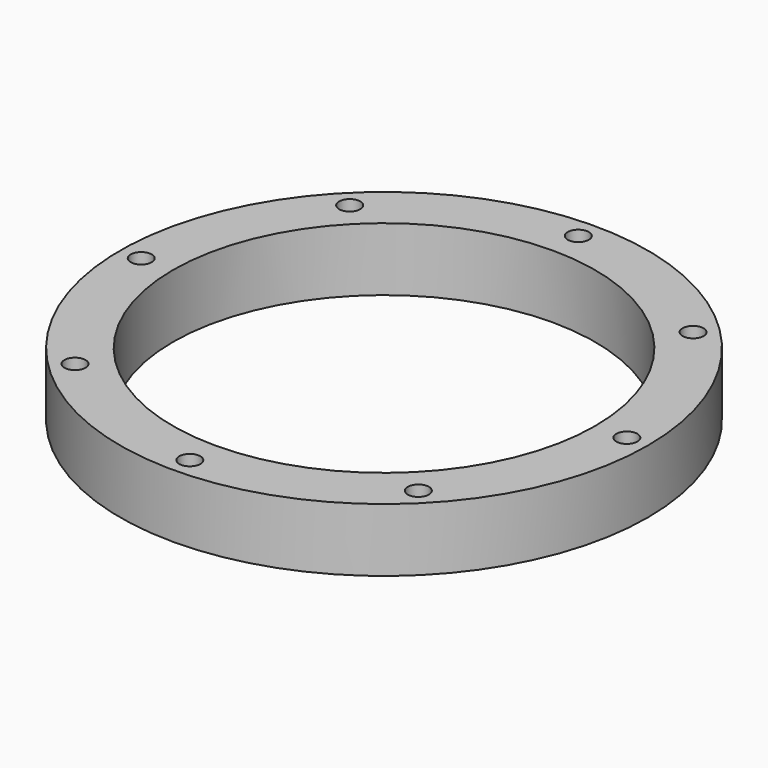
from build123d import *

# Parameters (mm, degrees)
CYLINDER2777_R               = 1
CYLINDER2777_DEPTH           = 10
CYLINDER2777_PLACEMENT_ANGLE = 45
CYLINDER2779_R               = 1
CYLINDER2779_DEPTH           = 10
CYLINDER2780_R               = 1
CYLINDER2780_DEPTH           = 10
CYLINDER2780_PLACEMENT_ANGLE = 135
CYLINDER2784_R               = 1
CYLINDER2784_DEPTH           = 10
CYLINDER2776_R               = 1
CYLINDER2776_DEPTH           = 10
CYLINDER2776_PLACEMENT_ANGLE = 225
CYLINDER2782_R               = 1
CYLINDER2782_DEPTH           = 10
CYLINDER2775_R               = 1
CYLINDER2775_DEPTH           = 10
CYLINDER2775_PLACEMENT_ANGLE = 45
CYLINDER2774_R               = 1
CYLINDER2774_DEPTH           = 10
CYLINDER2788_R               = 2
CYLINDER2788_DEPTH           = 2
CYLINDER2788_PLACEMENT_ANGLE = 45
CYLINDER2783_R               = 2
CYLINDER2783_DEPTH           = 2
CYLINDER2778_R               = 2
CYLINDER2778_DEPTH           = 2
CYLINDER2778_PLACEMENT_ANGLE = 135
CYLINDER2789_R               = 2
CYLINDER2789_DEPTH           = 2
CYLINDER2785_R               = 2
CYLINDER2785_DEPTH           = 2
CYLINDER2785_PLACEMENT_ANGLE = 225
CYLINDER2786_R               = 2
CYLINDER2786_DEPTH           = 2
CYLINDER2787_R               = 2
CYLINDER2787_DEPTH           = 2
CYLINDER2787_PLACEMENT_ANGLE = 45
CYLINDER2781_R               = 2
CYLINDER2781_DEPTH           = 2
TUBE136_R                    = 25
TUBE136_R_2                  = 20
TUBE136_DEPTH                = 6


with BuildPart() as obj1:
    # Cylinder2777 → Cylinder2777 (new body)
    with BuildSketch(Plane.XY):
        Circle(CYLINDER2777_R)
    extrude(amount=CYLINDER2777_DEPTH)


with BuildPart() as obj1_1:
    # Cylinder2777 placement: moved
    add(obj1.part.moved(Location((-16.263456, 16.263456, 4))).rotate(Axis((-16.263456, 16.263456, 4), (0, 0, 1)), CYLINDER2777_PLACEMENT_ANGLE))


with BuildPart() as obj2:
    # Cylinder2779 → Cylinder2779 (new body)
    with BuildSketch(Plane(origin=(-23, 0, 4), x_dir=(0, 1, 0), z_dir=(0, 0, 1))):
        Circle(CYLINDER2779_R)
    extrude(amount=CYLINDER2779_DEPTH)


with BuildPart() as obj3:
    # Cylinder2780 → Cylinder2780 (new body)
    with BuildSketch(Plane.XY):
        Circle(CYLINDER2780_R)
    extrude(amount=CYLINDER2780_DEPTH)


with BuildPart() as obj3_1:
    # Cylinder2780 placement: moved
    add(obj3.part.moved(Location((-16.263456, -16.263456, 4))).rotate(Axis((-16.263456, -16.263456, 4), (0, 0, 1)), CYLINDER2780_PLACEMENT_ANGLE))


with BuildPart() as obj4:
    # Cylinder2784 → Cylinder2784 (new body)
    with BuildSketch(Plane(origin=(0, -23, 4), x_dir=(-1, 0, 0), z_dir=(0, 0, 1))):
        Circle(CYLINDER2784_R)
    extrude(amount=CYLINDER2784_DEPTH)


with BuildPart() as obj5:
    # Cylinder2776 → Cylinder2776 (new body)
    with BuildSketch(Plane.XY):
        Circle(CYLINDER2776_R)
    extrude(amount=CYLINDER2776_DEPTH)


with BuildPart() as obj5_1:
    # Cylinder2776 placement: moved
    add(obj5.part.moved(Location((16.263456, -16.263456, 4))).rotate(Axis((16.263456, -16.263456, 4), (0, 0, 1)), CYLINDER2776_PLACEMENT_ANGLE))


with BuildPart() as obj6:
    # Cylinder2782 → Cylinder2782 (new body)
    with BuildSketch(Plane(origin=(23, 0, 4), x_dir=(0, -1, 0), z_dir=(0, 0, 1))):
        Circle(CYLINDER2782_R)
    extrude(amount=CYLINDER2782_DEPTH)


with BuildPart() as obj7:
    # Cylinder2775 → Cylinder2775 (new body)
    with BuildSketch(Plane.XY):
        Circle(CYLINDER2775_R)
    extrude(amount=CYLINDER2775_DEPTH)


with BuildPart() as obj7_1:
    # Cylinder2775 placement: moved
    add(obj7.part.moved(Location((16.263456, 16.263456, 4))).rotate(Axis((16.263456, 16.263456, 4), (0, 0, -1)), CYLINDER2775_PLACEMENT_ANGLE))


with BuildPart() as compound1238:
    # Cylinder2774 → Cylinder2774 (new body)
    with BuildSketch(Plane(origin=(0, 23, 4), x_dir=(1, 0, 0), z_dir=(0, 0, 1))):
        Circle(CYLINDER2774_R)
    extrude(amount=CYLINDER2774_DEPTH)

    # Compound1238: union obj1, obj2, obj3, obj4, obj5, obj6, obj7
    add(obj1_1.part)
    add(obj2.part)
    add(obj3_1.part)
    add(obj4.part)
    add(obj5_1.part)
    add(obj6.part)
    add(obj7_1.part)


with BuildPart() as obj8:
    # Cylinder2788 → Cylinder2788 (new body)
    with BuildSketch(Plane.XY):
        Circle(CYLINDER2788_R)
    extrude(amount=CYLINDER2788_DEPTH)


with BuildPart() as obj8_1:
    # Cylinder2788 placement: moved
    add(obj8.part.moved(Location((-16.263456, 16.263456, 4))).rotate(Axis((-16.263456, 16.263456, 4), (0, 0, 1)), CYLINDER2788_PLACEMENT_ANGLE))


with BuildPart() as obj9:
    # Cylinder2783 → Cylinder2783 (new body)
    with BuildSketch(Plane(origin=(-23, 0, 4), x_dir=(0, 1, 0), z_dir=(0, 0, 1))):
        Circle(CYLINDER2783_R)
    extrude(amount=CYLINDER2783_DEPTH)


with BuildPart() as obj10:
    # Cylinder2778 → Cylinder2778 (new body)
    with BuildSketch(Plane.XY):
        Circle(CYLINDER2778_R)
    extrude(amount=CYLINDER2778_DEPTH)


with BuildPart() as obj10_1:
    # Cylinder2778 placement: moved
    add(obj10.part.moved(Location((-16.263456, -16.263456, 4))).rotate(Axis((-16.263456, -16.263456, 4), (0, 0, 1)), CYLINDER2778_PLACEMENT_ANGLE))


with BuildPart() as obj11:
    # Cylinder2789 → Cylinder2789 (new body)
    with BuildSketch(Plane(origin=(0, -23, 4), x_dir=(-1, 0, 0), z_dir=(0, 0, 1))):
        Circle(CYLINDER2789_R)
    extrude(amount=CYLINDER2789_DEPTH)


with BuildPart() as obj12:
    # Cylinder2785 → Cylinder2785 (new body)
    with BuildSketch(Plane.XY):
        Circle(CYLINDER2785_R)
    extrude(amount=CYLINDER2785_DEPTH)


with BuildPart() as obj12_1:
    # Cylinder2785 placement: moved
    add(obj12.part.moved(Location((16.263456, -16.263456, 4))).rotate(Axis((16.263456, -16.263456, 4), (0, 0, 1)), CYLINDER2785_PLACEMENT_ANGLE))


with BuildPart() as obj13:
    # Cylinder2786 → Cylinder2786 (new body)
    with BuildSketch(Plane(origin=(23, 0, 4), x_dir=(0, -1, 0), z_dir=(0, 0, 1))):
        Circle(CYLINDER2786_R)
    extrude(amount=CYLINDER2786_DEPTH)


with BuildPart() as obj14:
    # Cylinder2787 → Cylinder2787 (new body)
    with BuildSketch(Plane.XY):
        Circle(CYLINDER2787_R)
    extrude(amount=CYLINDER2787_DEPTH)


with BuildPart() as obj14_1:
    # Cylinder2787 placement: moved
    add(obj14.part.moved(Location((16.263456, 16.263456, 4))).rotate(Axis((16.263456, 16.263456, 4), (0, 0, -1)), CYLINDER2787_PLACEMENT_ANGLE))


with BuildPart() as compound1239:
    # Cylinder2781 → Cylinder2781 (new body)
    with BuildSketch(Plane(origin=(0, 23, 4), x_dir=(1, 0, 0), z_dir=(0, 0, 1))):
        Circle(CYLINDER2781_R)
    extrude(amount=CYLINDER2781_DEPTH)

    # Compound1239: union obj8, obj9, obj10, obj11, obj12, obj13, obj14
    add(obj8_1.part)
    add(obj9.part)
    add(obj10_1.part)
    add(obj11.part)
    add(obj12_1.part)
    add(obj13.part)
    add(obj14_1.part)


with BuildPart() as cut1046:
    # Tube136 → Tube136 (new body)
    with BuildSketch(Plane.XY.offset(4)):
        Circle(TUBE136_R)
        Circle(TUBE136_R_2, mode=Mode.SUBTRACT)
    extrude(amount=TUBE136_DEPTH)

    # Cut1047: cut Compound1239
    add(compound1239.part, mode=Mode.SUBTRACT)

    # Cut1046: cut Compound1238
    add(compound1238.part, mode=Mode.SUBTRACT)


solid = cut1046.part
